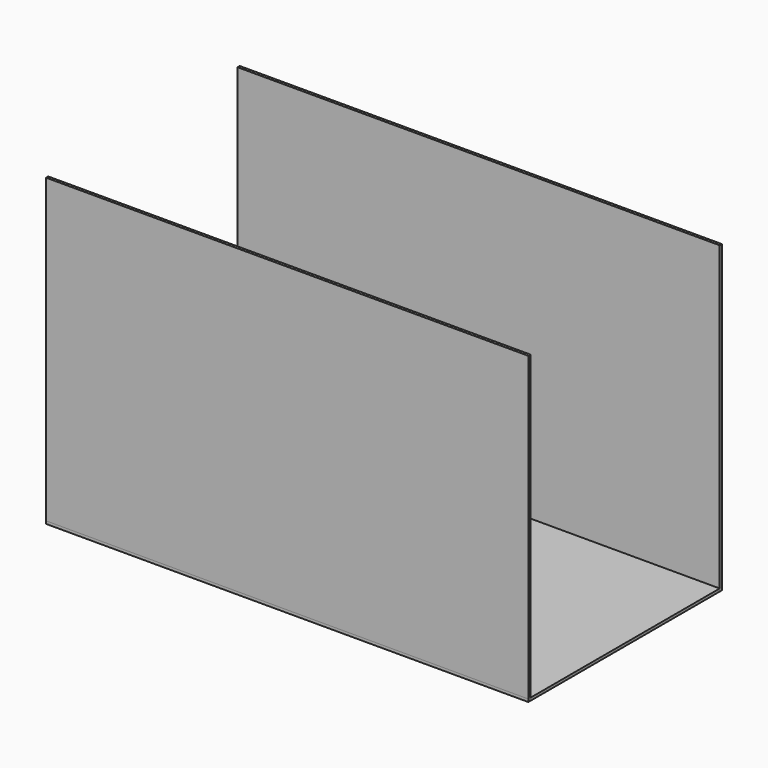
from build123d import *

# Parameters (mm, degrees)
F2_W     = 265
F2_H     = 1.5
F3_DEPTH = 1.5
F0_W     = 265
F0_H     = 130
F1_W     = 265
F1_H     = 1.5
F4_DEPTH = 166


with BuildPart() as f3:
    # F2 (on Top) → F3 (new body)
    with BuildSketch(Plane.XY):
        with Locations((2.6923064142, 26.8188768528)):
            Rectangle(F2_W, F2_H)
    extrude(amount=F3_DEPTH)


with BuildPart() as f3b:
    # F0 (on Top) → F3, piece 2 (new body)
    with BuildSketch(Plane.XY):
        with Locations((2.6923064142, -38.9311231472)):
            Rectangle(F0_W, F0_H)
    extrude(amount=F3_DEPTH)


with BuildPart() as f3c:
    # F1 (on Top) → F3, piece 3 (new body)
    with BuildSketch(Plane.XY):
        with Locations((2.6923064142, -104.6811231472)):
            Rectangle(F1_W, F1_H)
    extrude(amount=F3_DEPTH)


with BuildPart() as f4:
    # F4 (new): a face of the model
    f4_faces = [f3.part.faces().sort_by_distance(p)[0] for p in [
        (2.6923064142, 26.8188768528, 1.5),
    ]]
    extrude(f4_faces, amount=F4_DEPTH)


with BuildPart() as f4b:
    # F4#2 (new): a face of the model
    f4_2_faces = [f3c.part.faces().sort_by_distance(p)[0] for p in [
        (2.6923064142, -104.6811231472, 1.5),
    ]]
    extrude(f4_2_faces, amount=F4_DEPTH)


solid = Compound([f3.part, f3b.part, f3c.part, f4.part, f4b.part])
